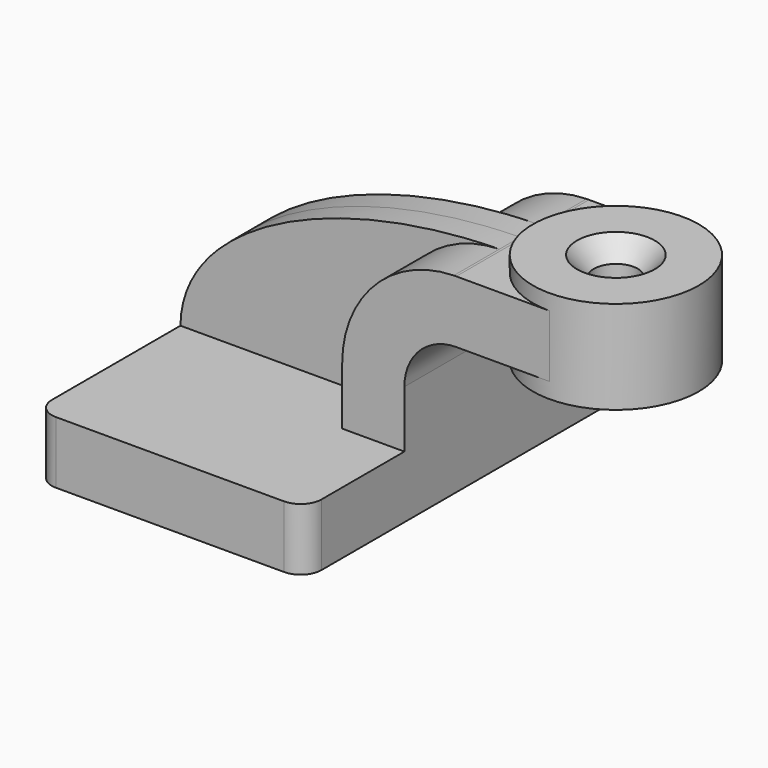
from build123d import *

# Parameters (mm, degrees)
F1_DEPTH       = 63.5
F0_W           = 25.4
F0_H           = 19.05
F2_DEPTH       = 25.4
F3_DEPTH       = 7.9375
F5_R           = 6.35
F7_D           = 13.49248
F7_CSINK_D     = 23.8252
F7_CSINK_ANGLE = 82


with BuildPart() as f1:
    # F0 (on Front) → F1 (new body, symmetric)
    with BuildSketch(Plane.XZ):
        Polygon((-41.275, 9.525), (-41.275, -9.525), (41.275, -9.525), (41.275, 9.525), (22.225, 9.525), align=None)
    extrude(amount=F1_DEPTH, both=True)

    # F0 (on Front) → F2 (join, symmetric)
    with BuildSketch(Plane.XZ):
        with BuildLine():
            Line((22.225, 9.525), (41.275, 9.525))
            Line((41.275, 9.525), (41.275, 27.0002))
            ThreePointArc((41.275, 27.0002), (45.9246798487, 38.2255201513), (57.15, 42.8752))
            Line((57.15, 42.8752), (60.325, 42.8752))
            Line((60.325, 42.8752), (60.325, 61.9252))
            Line((60.325, 61.9252), (57.15, 61.9252))
            add(Edge.make_bspline(
                [(56.4151043372, 61.9174672666), (56.659972062, 61.9205386908), (56.9049388479, 61.9231167628), (57.15, 61.9252)],
                knots=[110.9697423525, 110.9697423525, 110.9697423525, 110.9697423525, 111.5045361635, 111.5045361635, 111.5045361635, 111.5045361635], degree=3))
            ThreePointArc((56.4151043372, 61.9174672666), (32.1958234355, 51.4346980916), (22.225, 27.0002))
            Line((22.225, 27.0002), (22.225, 9.525))
        make_face()
        with Locations((73.025, 52.4002)):
            Rectangle(F0_W, F0_H)
    extrude(amount=F2_DEPTH, both=True)

    # F0 (on Front) → F3 (join, symmetric)
    with BuildSketch(Plane.XZ):
        with BuildLine():
            add(Edge.make_bspline(
                [(-41.275, 9.525), (-40.9398250429, 39.4009187199), (5.6050392748, 61.2801465881), (56.4151043372, 61.9174672666)],
                knots=[0, 0, 0, 0, 110.9697423525, 110.9697423525, 110.9697423525, 110.9697423525], degree=3))
            Line((-41.275, 9.525), (22.225, 9.525))
            Line((22.225, 9.525), (22.225, 27.0002))
            ThreePointArc((22.225, 27.0002), (32.1958234355, 51.4346980916), (56.4151043372, 61.9174672666))
        make_face()
    extrude(amount=F3_DEPTH, both=True)

    # F0 (on Front) → F4 (revolve)
    with BuildSketch(Plane.XZ):
        Polygon((85.725, 66.6865812632), (85.725, 61.9252), (85.725, 42.8752), (85.725, 38.1115812632), (111.125, 38.1115812632), (111.125, 66.6865812632), align=None)
    revolve(axis=Axis((85.725, 0, 52.3990812632), (0, 0, 1)))

    # F5
    f5_edges = [f1.edges().sort_by_distance(p)[0] for p in [
        (-41.275, -63.5, 0),
        (41.275, -63.5, 0),
        (41.275, 63.5, 0),
        (-41.275, 63.5, 0),
    ]]
    fillet(f5_edges, radius=F5_R)

    # F7 (through all)
    with Locations(Plane.XY.offset(66.6865812632)):
        with Locations((85.725, 0)):
            CounterSinkHole(F7_D / 2, F7_CSINK_D / 2, counter_sink_angle=F7_CSINK_ANGLE)


solid = f1.part
